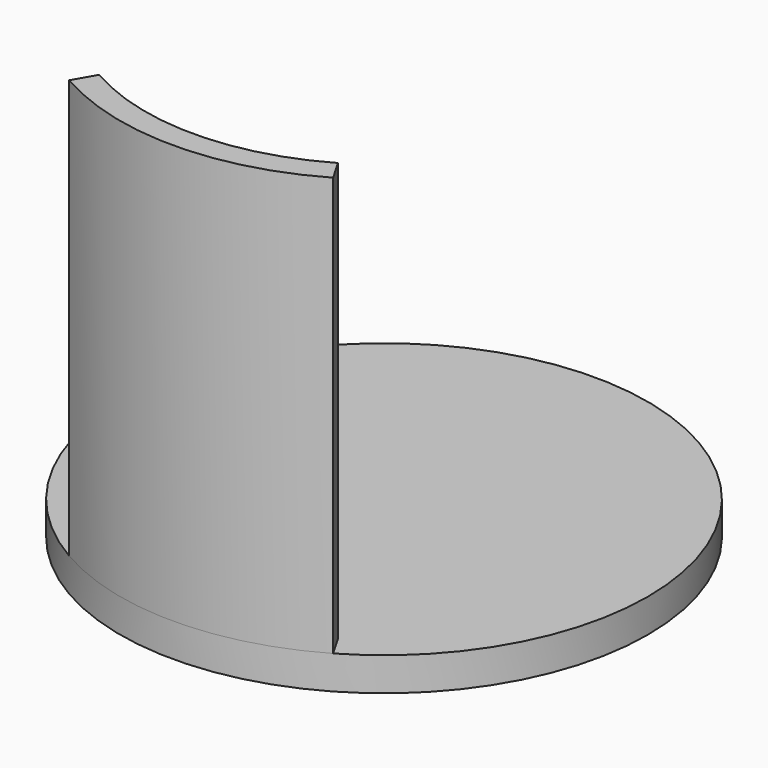
from build123d import *

# Parameters (mm, degrees)
F0_R     = 15.75
F1_DEPTH = 2
F3_DEPTH = 25


with BuildPart() as f1:
    # F0 (on Top) → F1 (new body)
    with BuildSketch(Plane.XY):
        Circle(F0_R)
    extrude(amount=F1_DEPTH)

    # F2 (on face) → F3 (join)
    with BuildSketch(Plane.XY.offset(2)):
        with BuildLine():
            Line((-7.125, -12.340862), (-7.875, -13.6399))
            ThreePointArc((-7.875, -13.6399), (0, -15.75), (7.875, -13.6399))
            Line((7.875, -13.6399), (7.125, -12.340862))
            ThreePointArc((7.125, -12.340862), (0, -14.25), (-7.125, -12.340862))
        make_face()
    extrude(amount=F3_DEPTH)


solid = f1.part
